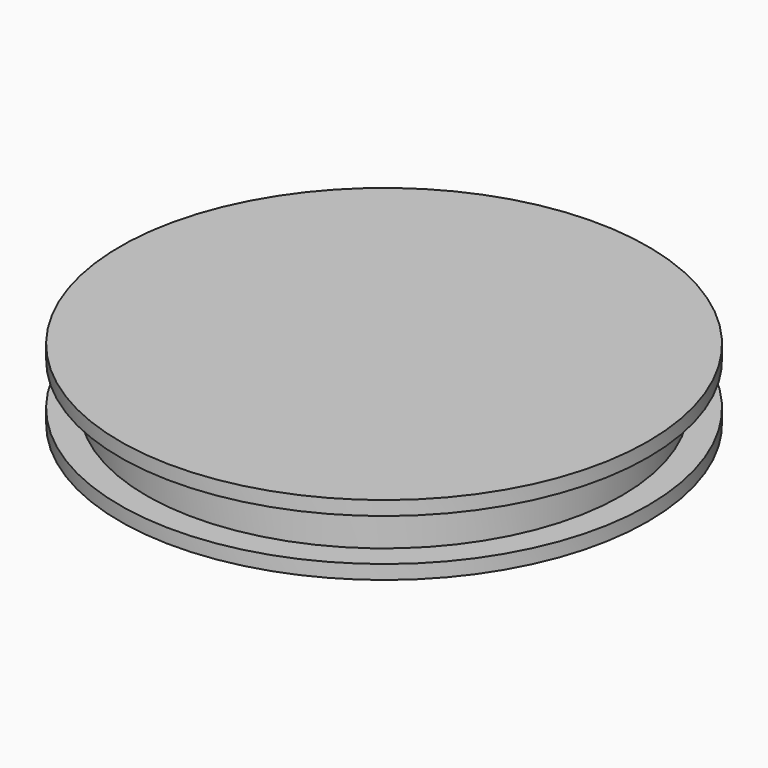
from build123d import *

# Parameters (mm, degrees)
F2_R     = 75
F3_DEPTH = 4
F5_R     = 67.5
F6_DEPTH = 12
F8_R     = 75
F9_DEPTH = 4


with BuildPart() as f3:
    # F2 (on Top) → F3 (new body)
    with BuildSketch(Plane.XY):
        Circle(F2_R)
    extrude(amount=F3_DEPTH)

    # F5 (on offset) → F6 (join)
    with BuildSketch(Plane.XY.offset(4)):
        Circle(F5_R)
    extrude(amount=F6_DEPTH)

    # F8 (on offset) → F9 (join)
    with BuildSketch(Plane.XY.offset(16)):
        Circle(F8_R)
    extrude(amount=F9_DEPTH)


with BuildPart() as f10_1:
    # F10: copy of F3
    add(f3.part.moved(Location((0, 0, 20))))


with BuildPart() as f12_1:
    # F12: copy of F3
    add(f3.part)


solid = f3.part
